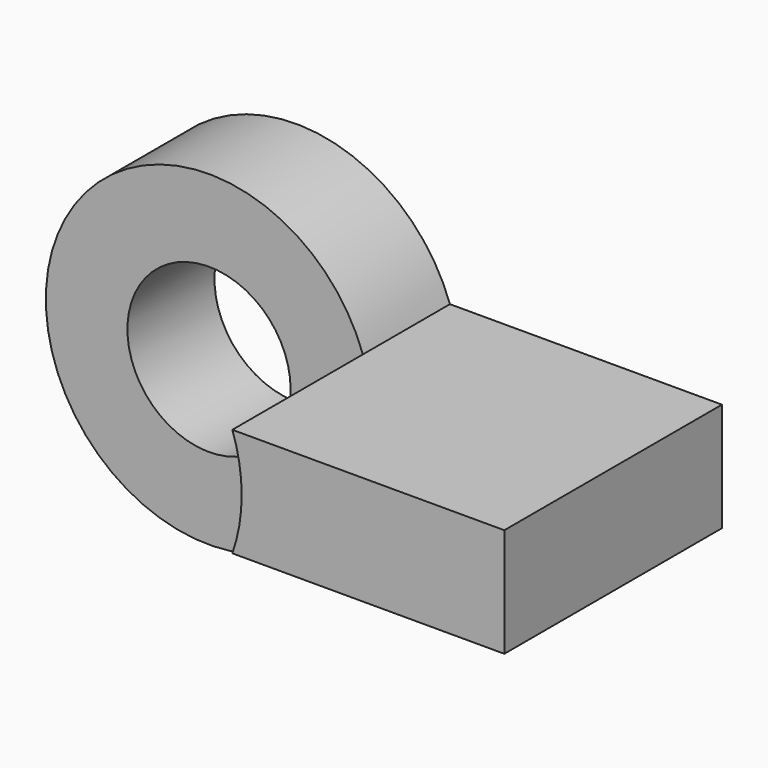
from build123d import *

# Parameters (mm, degrees)
F0_R     = 15
F1_DEPTH = 20
F2_DEPTH = 50


with BuildPart() as f1:
    # F0 (on Front) → F1 (new body)
    with BuildSketch(Plane.XZ):
        with BuildLine():
            ThreePointArc((0, -10), (1.283686, -5.073059), (1.715729, 0))
            ThreePointArc((1.715729, 0), (1.283686, 5.073059), (0, 10))
            ThreePointArc((0, 10), (-58.284271, 0), (0, -10))
        make_face()
        with Locations((-28.284271, 0)):
            Circle(F0_R, mode=Mode.SUBTRACT)
        with BuildLine():
            ThreePointArc((0, 10), (1.283686, 5.073059), (1.715729, 0))
            ThreePointArc((1.715729, 0), (1.283686, -5.073059), (0, -10))
            Line((0, -10), (50, -10))
            Line((50, -10), (50, 10))
            Line((50, 10), (0, 10))
        make_face()
    extrude(amount=F1_DEPTH)

    # F0 (on Front) → F2 (join)
    with BuildSketch(Plane.XZ):
        with BuildLine():
            ThreePointArc((0, 10), (1.283686, 5.073059), (1.715729, 0))
            ThreePointArc((1.715729, 0), (1.283686, -5.073059), (0, -10))
            Line((0, -10), (50, -10))
            Line((50, -10), (50, 10))
            Line((50, 10), (0, 10))
        make_face()
    extrude(amount=F2_DEPTH)


solid = f1.part
